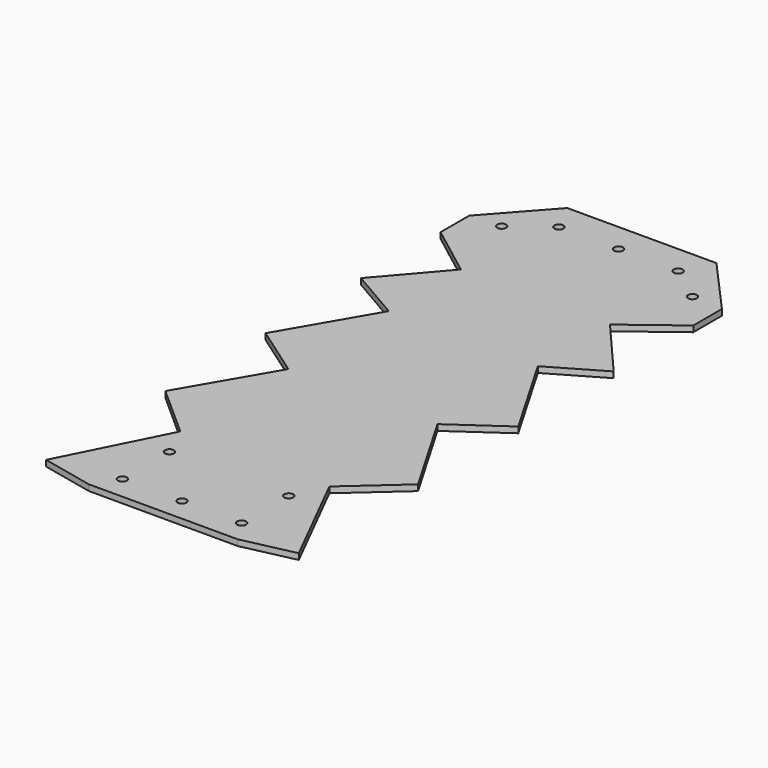
from build123d import *

# Parameters (mm, degrees)
F0_R     = 1.5
F1_DEPTH = 2


with BuildPart() as f1:
    # F0 (on Top) → F1 (new body)
    with BuildSketch(Plane.XY):
        Polygon((-42.367958, -92), (-25, -95.822892), (25, -95.822892), (42.367958, -92), (25, -57.454384), (42.367958, -42), (25, -12.163068), (42.367958, 0), (25, 29.917361), (42.367958, 40), (25, 60.158143), (42.367958, 73.368201), (42.367958, 85.368201), (25, 104.778975), (-25, 104.778975), (-42.367958, 85.368201), (-42.367958, 73.368201), (-25, 60.158143), (-42.367958, 40), (-25, 29.917361), (-42.367958, 0), (-25, -12.163068), (-42.367958, -42), (-25, -57.454384), align=None)
        with Locations((-20, -88)):
            Circle(F0_R, mode=Mode.SUBTRACT)
        with Locations((-20, -68.25)):
            Circle(F0_R, mode=Mode.SUBTRACT)
        with Locations((0, -88)):
            Circle(F0_R, mode=Mode.SUBTRACT)
        with Locations((20, -88)):
            Circle(F0_R, mode=Mode.SUBTRACT)
        with Locations((20, -68.25)):
            Circle(F0_R, mode=Mode.SUBTRACT)
        with Locations((-32, 86)):
            Circle(F0_R, mode=Mode.SUBTRACT)
        with Locations((-20, 95)):
            Circle(F0_R, mode=Mode.SUBTRACT)
        with Locations((0, 95)):
            Circle(F0_R, mode=Mode.SUBTRACT)
        with Locations((20, 95)):
            Circle(F0_R, mode=Mode.SUBTRACT)
        with Locations((32, 86)):
            Circle(F0_R, mode=Mode.SUBTRACT)
    extrude(amount=F1_DEPTH)


solid = f1.part
